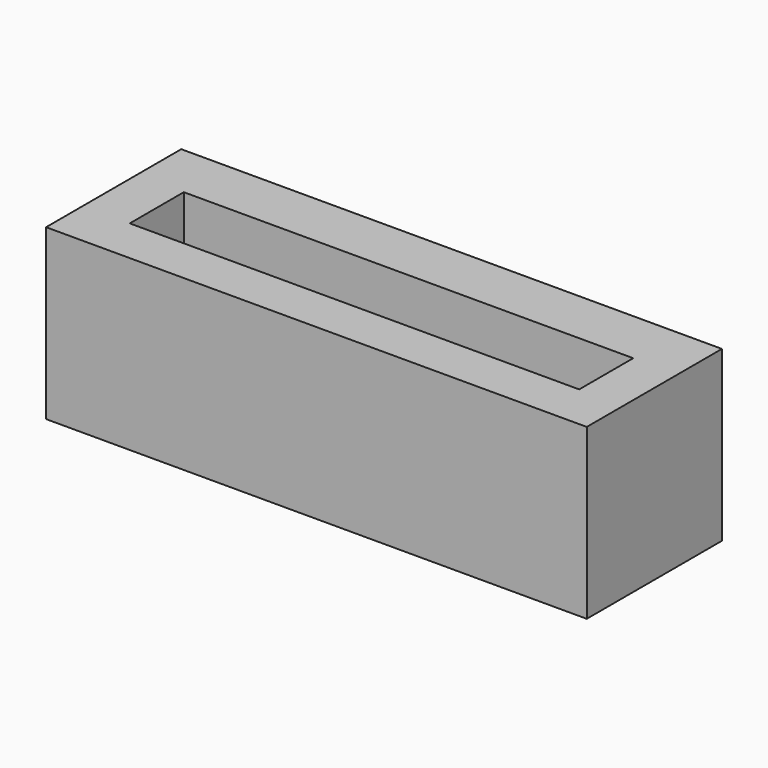
from build123d import *

# Parameters (mm, degrees)
BOX_W        = 16
BOX_H        = 5
BOX_DEPTH    = 5
SKETCH_W     = 13.3
SKETCH_H     = 2
POCKET_DEPTH = 3


with BuildPart() as part:
    # Box → Box (new body)
    with BuildSketch(Plane.XY):
        with Locations((8, 2.5)):
            Rectangle(BOX_W, BOX_H)
    extrude(amount=BOX_DEPTH)

    # Sketch (on Face6 of BaseFeature) → Pocket (cut)
    with BuildSketch(Plane.XY.offset(5)):
        with Locations((8.040556, 2.356489)):
            Rectangle(SKETCH_W, SKETCH_H)
    extrude(amount=-POCKET_DEPTH, mode=Mode.SUBTRACT)


solid = part.part
